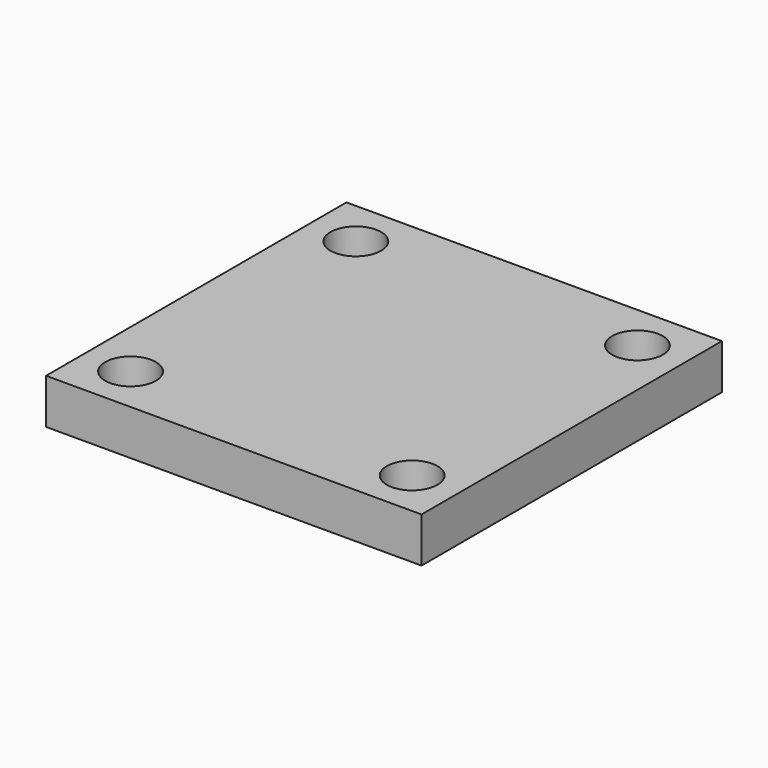
from build123d import *

# Parameters (mm, degrees)
F0_W     = 100
F0_H     = 100
F1_DEPTH = 12
F3_D     = 13.5
F3_DEPTH = 25
F3_TIP   = 4.0558091784


with BuildPart() as f1:
    # F0 (on Top) → F1 (new body)
    with BuildSketch(Plane.XY):
        Rectangle(F0_W, F0_H)
    extrude(amount=F1_DEPTH)

    # F3
    with Locations(Plane.XY.offset(12)):
        with Locations((-37.5, 37.5), (37.5, 37.5), (37.5, -37.5), (-37.5, -37.5)):
            Hole(F3_D / 2, depth=F3_DEPTH)
            with Locations((0, 0, -(F3_DEPTH + F3_TIP / 2))):  # 118° drill point
                Cone(0, F3_D / 2, F3_TIP, mode=Mode.SUBTRACT)


solid = f1.part
